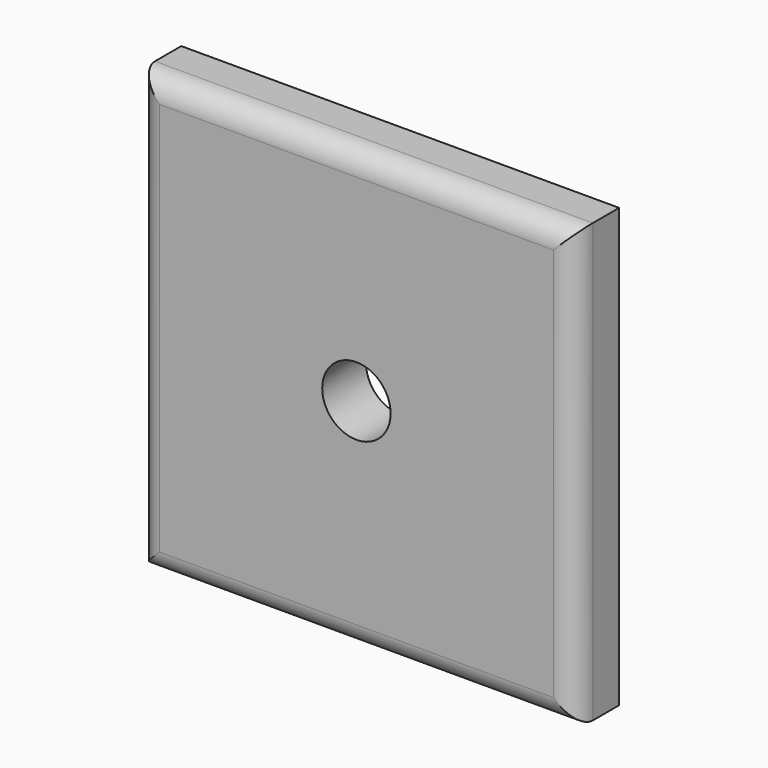
from build123d import *

# Parameters (mm, degrees)
F0_W     = 50.8
F0_H     = 50.8
F1_DEPTH = 6.35
F2_R     = 2.54
F4_D     = 7.9375


with BuildPart() as f1:
    # F0 (on Front) → F1 (new body)
    with BuildSketch(Plane.XZ):
        Rectangle(F0_W, F0_H)
    extrude(amount=F1_DEPTH)

    # F2
    f2_edges = [f1.edges().sort_by_distance(p)[0] for p in [
        (25.4, -6.35, 0),
        (0, -6.35, -25.4),
        (-25.4, -6.35, 0),
        (0, -6.35, 25.4),
    ]]
    fillet(f2_edges, radius=F2_R)

    # F4 (through all)
    with Locations(Plane.XZ.offset(6.35)):
        with Locations((0, 0)):
            Hole(F4_D / 2)


solid = f1.part
